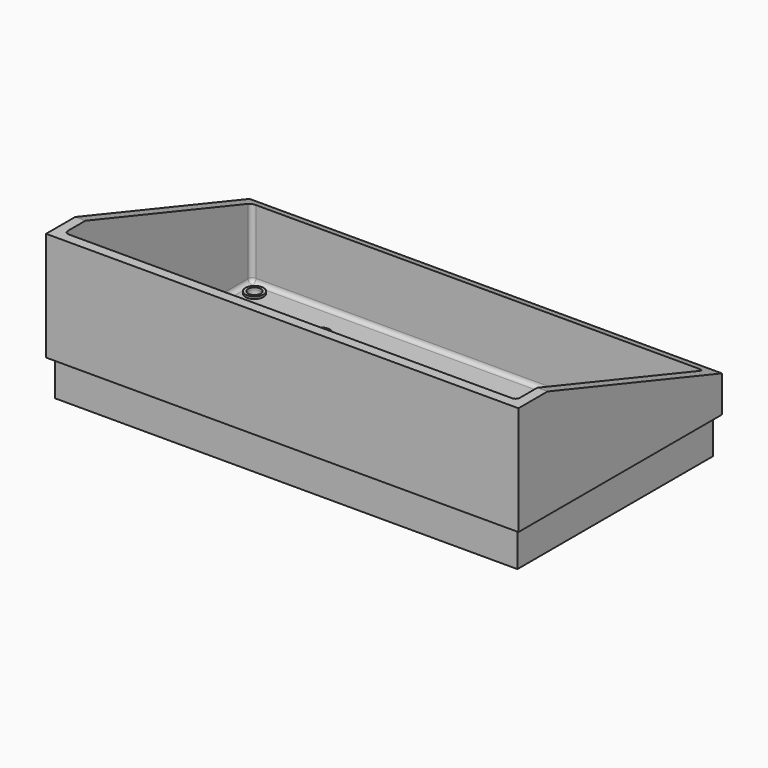
from build123d import *

# Parameters (mm, degrees)
F0_W          = 130
F0_H          = 70
F1_DEPTH      = 40
F2_W          = 124.4
F2_H          = 64.4
F3_DEPTH      = 38
F5_DEPTH      = 146.2
F6_W          = 130
F6_H          = 70
F6_W_2        = 127.2
F6_H_2        = 67.2
F7_DEPTH      = 10
F8_W          = 61
F8_H          = 46
F8_R          = 1.75
F9_DEPTH      = 25
F9_DEPTH_BACK = 25
F10_R         = 1.75
F11_DEPTH     = 25
F12_R         = 2.5
F12_R_2       = 1.75
F13_DEPTH     = 0.6
F14_R         = 1.2


with BuildPart() as f1:
    # F0 (on Top) → F1 (new body)
    with BuildSketch(Plane.XY):
        with Locations((-22.509574, 13.26069)):
            Rectangle(F0_W, F0_H)
    extrude(amount=F1_DEPTH)

    # F2 (on face) → F3 (cut)
    with BuildSketch(Plane.XY.offset(40)):
        with Locations((-22.509574, 13.26069)):
            Rectangle(F2_W, F2_H)
    extrude(amount=-F3_DEPTH, mode=Mode.SUBTRACT)

    # F4 (on face) → F5 (cut)
    with BuildSketch(Plane.YZ.offset(42.490426)):
        Polygon((48.26069, 40), (-11.73931, 40), (48.26069, 20), align=None)
    extrude(amount=-F5_DEPTH, mode=Mode.SUBTRACT)

    # F6 (on face) → F7 (cut)
    with BuildSketch(Plane(origin=(0, 0, 0), x_dir=(1, 0, 0), z_dir=(0, 0, -1))):
        with Locations((-22.509574, -13.26069)):
            Rectangle(F6_W, F6_H)
        with Locations((-22.509574, -13.26069)):
            Rectangle(F6_W_2, F6_H_2, mode=Mode.SUBTRACT)
    extrude(amount=-F7_DEPTH, mode=Mode.SUBTRACT)

    # F8 (on face) → F9 (cut, two sides)
    with BuildSketch(Plane.XY.offset(2)) as f9_sk:
        with Locations((-22.509574, 13.26069)):
            Rectangle(F8_W, F8_H)
        with Locations((-57.509574, 35.26069)):
            Circle(F8_R)
        with Locations((18.490426, 35.26069)):
            Circle(F8_R)
        with Locations((18.490426, -8.73931)):
            Circle(F8_R)
        with Locations((-57.509574, -8.73931)):
            Circle(F8_R)
    extrude(amount=-F9_DEPTH, mode=Mode.SUBTRACT)
    extrude(f9_sk.sketch, amount=-F9_DEPTH_BACK, mode=Mode.SUBTRACT)

    # F10 (on face) → F11 (cut)
    with BuildSketch(Plane.XY.offset(2)):
        with Locations((-80.709574, 41.46069)):
            Circle(F10_R)
        with Locations((35.690426, 41.46069)):
            Circle(F10_R)
        with Locations((35.690426, -14.93931)):
            Circle(F10_R)
        with Locations((-80.709574, -14.93931)):
            Circle(F10_R)
    extrude(amount=-F11_DEPTH, mode=Mode.SUBTRACT)

    # F12 (on face) → F13 (join)
    with BuildSketch(Plane.XY.offset(2)):
        with Locations((-57.509574, 35.26069)):
            Circle(F12_R)
        with Locations((-57.509574, 35.26069)):
            Circle(F12_R_2, mode=Mode.SUBTRACT)
        with Locations((18.490426, 35.26069)):
            Circle(F12_R)
        with Locations((18.490426, 35.26069)):
            Circle(F12_R_2, mode=Mode.SUBTRACT)
        with Locations((18.490426, -8.73931)):
            Circle(F12_R)
        with Locations((18.490426, -8.73931)):
            Circle(F12_R_2, mode=Mode.SUBTRACT)
        with Locations((-57.509574, -8.73931)):
            Circle(F12_R)
        with Locations((-57.509574, -8.73931)):
            Circle(F12_R_2, mode=Mode.SUBTRACT)
        with Locations((-80.709574, -14.93931)):
            Circle(F12_R)
        with Locations((-80.709574, -14.93931)):
            Circle(F12_R_2, mode=Mode.SUBTRACT)
        with Locations((-80.709574, 41.46069)):
            Circle(F12_R)
        with Locations((-80.709574, 41.46069)):
            Circle(F12_R_2, mode=Mode.SUBTRACT)
        with Locations((35.690426, 41.46069)):
            Circle(F12_R)
        with Locations((35.690426, 41.46069)):
            Circle(F12_R_2, mode=Mode.SUBTRACT)
        with Locations((35.690426, -14.93931)):
            Circle(F12_R)
        with Locations((35.690426, -14.93931)):
            Circle(F12_R_2, mode=Mode.SUBTRACT)
    extrude(amount=F13_DEPTH)

    # F14
    f14_edges = [f1.edges().sort_by_distance(p)[0] for p in [
        (39.690426, 45.46069, 11.466667),
        (-84.709574, 45.46069, 11.466667),
        (-84.709574, -18.93931, 21),
        (39.690426, -18.93931, 21),
        (-84.709574, 13.26069, 2),
        (-22.509574, -18.93931, 2),
        (39.690426, 13.26069, 2),
        (-22.509574, 45.46069, 2),
    ]]
    fillet(f14_edges, radius=F14_R)


solid = f1.part
